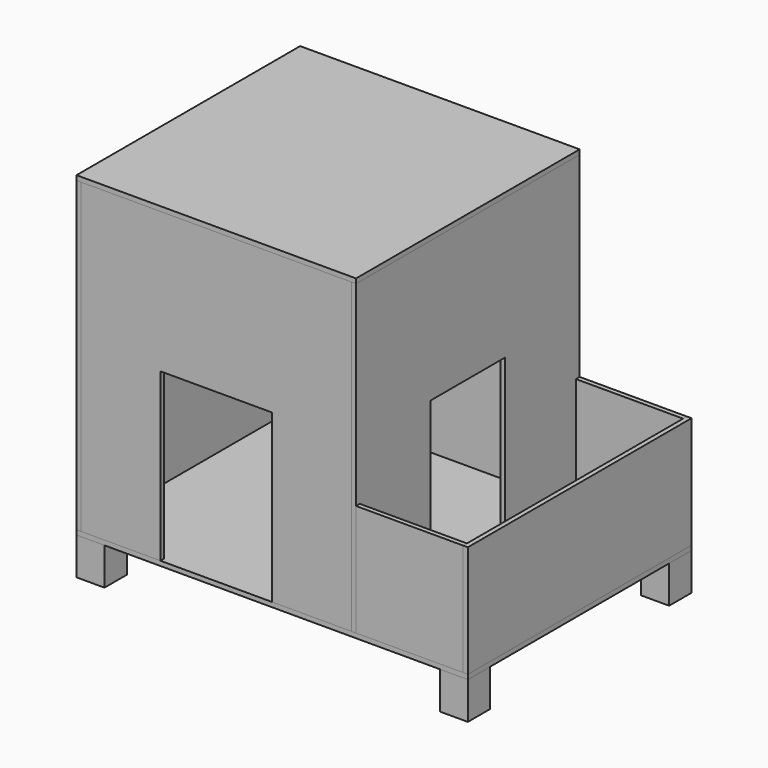
from build123d import *

# Parameters (mm, degrees)
F0_W      = 420
F0_H      = 300
F1_DEPTH  = 5
F2_W      = 30
F2_H      = 30
F3_DEPTH  = 40
F6_W      = 5
F6_H      = 300
F7_DEPTH  = 330
F8_W      = 5
F8_H      = 300
F9_DEPTH  = 330
F10_W     = 290
F10_H     = 5
F11_DEPTH = 330
F13_W     = 100
F13_H     = 179
F14_DEPTH = 5
F15_W     = 5
F15_H     = 300
F16_DEPTH = 120
F17_W     = 115
F17_H     = 5
F18_DEPTH = 120
F20_W     = 300
F20_H     = 300
F21_DEPTH = 5
F22_W     = 120
F22_H     = 179
F23_DEPTH = 5
F24_W     = 110
F24_H     = 110
F25_DEPTH = 25
F26_W     = 120
F26_H     = 110
F27_DEPTH = 5


with BuildPart() as f1:
    # F0 (on Top) → F1 (new body)
    with BuildSketch(Plane.XY):
        Rectangle(F0_W, F0_H)
    extrude(amount=F1_DEPTH)


with BuildPart() as f3:
    # F2 (on face) → F3 (new body)
    with BuildSketch(Plane(origin=(0, 0, 0), x_dir=(1, 0, 0), z_dir=(0, 0, -1))):
        with Locations((-195, 135)):
            Rectangle(F2_W, F2_H)
    extrude(amount=F3_DEPTH)


with BuildPart() as f4_1:
    # F4: instance of F3
    add(f3.part.mirror(Plane.XZ))


with BuildPart() as f5_1:
    # F5: instance of F3
    add(f3.part.mirror(Plane.YZ))


with BuildPart() as f5_2:
    # F5: instance of F4_1
    add(f4_1.part.mirror(Plane.YZ))


with BuildPart() as f7:
    # F6 (on face) → F7 (new body)
    with BuildSketch(Plane.XY.offset(5)):
        with Locations((-207.5, 0)):
            Rectangle(F6_W, F6_H)
    extrude(amount=F7_DEPTH)

    # F24 (on face) → F25 (cut)
    with BuildSketch(Plane.YZ.offset(-205)):
        with Locations((0, 170)):
            Rectangle(F24_W, F24_H)
    extrude(amount=-F25_DEPTH, mode=Mode.SUBTRACT)


with BuildPart() as f9:
    # F8 (on face) → F9 (new body, through all)
    with BuildSketch(Plane.XY.offset(5)):
        with Locations((87.5, 0)):
            Rectangle(F8_W, F8_H)
    extrude(amount=F9_DEPTH)

    # F13 (on face) → F14 (cut, through all)
    with BuildSketch(Plane.YZ.offset(90)):
        with Locations((0, 94.5)):
            Rectangle(F13_W, F13_H)
    extrude(amount=-F14_DEPTH, mode=Mode.SUBTRACT)


with BuildPart() as f11:
    # F10 (on face) → F11 (new body, through all)
    with BuildSketch(Plane.XY.offset(5)):
        with Locations((-60, -147.5)):
            Rectangle(F10_W, F10_H)
    extrude(amount=F11_DEPTH)


with BuildPart() as f12_1:
    # F12: instance of F11
    add(f11.part.mirror(Plane.XZ))

    # F26 (on face) → F27 (cut, through all)
    with BuildSketch(Plane(origin=(0, 150, 0), x_dir=(-1, 0, 0), z_dir=(0, 1, 0))):
        with Locations((60, 170)):
            Rectangle(F26_W, F26_H)
    extrude(amount=-F27_DEPTH, mode=Mode.SUBTRACT)


with BuildPart() as f16:
    # F15 (on face) → F16 (new body)
    with BuildSketch(Plane.XY.offset(5)):
        with Locations((207.5, 0)):
            Rectangle(F15_W, F15_H)
    extrude(amount=F16_DEPTH)


with BuildPart() as f18:
    # F17 (on face) → F18 (new body, through all)
    with BuildSketch(Plane.XY.offset(5)):
        with Locations((147.5, -147.5)):
            Rectangle(F17_W, F17_H)
    extrude(amount=F18_DEPTH)


with BuildPart() as f19_1:
    # F19: instance of F18
    add(f18.part.mirror(Plane.XZ))


with BuildPart() as f21:
    # F20 (on face) → F21 (new body)
    with BuildSketch(Plane.XY.offset(335)):
        with Locations((-60, 0)):
            Rectangle(F20_W, F20_H)
    extrude(amount=F21_DEPTH)


with BuildPart() as f11_1:
    add(f11.part)

    # F22 (on face) → F23 (cut, through all)
    with BuildSketch(Plane.XZ.offset(150)):
        with Locations((-60, 94.5)):
            Rectangle(F22_W, F22_H)
    extrude(amount=-F23_DEPTH, mode=Mode.SUBTRACT)


solid = Compound([f1.part, f3.part, f4_1.part, f5_1.part, f5_2.part, f7.part, f9.part, f12_1.part, f16.part, f18.part, f19_1.part, f21.part, f11_1.part])
